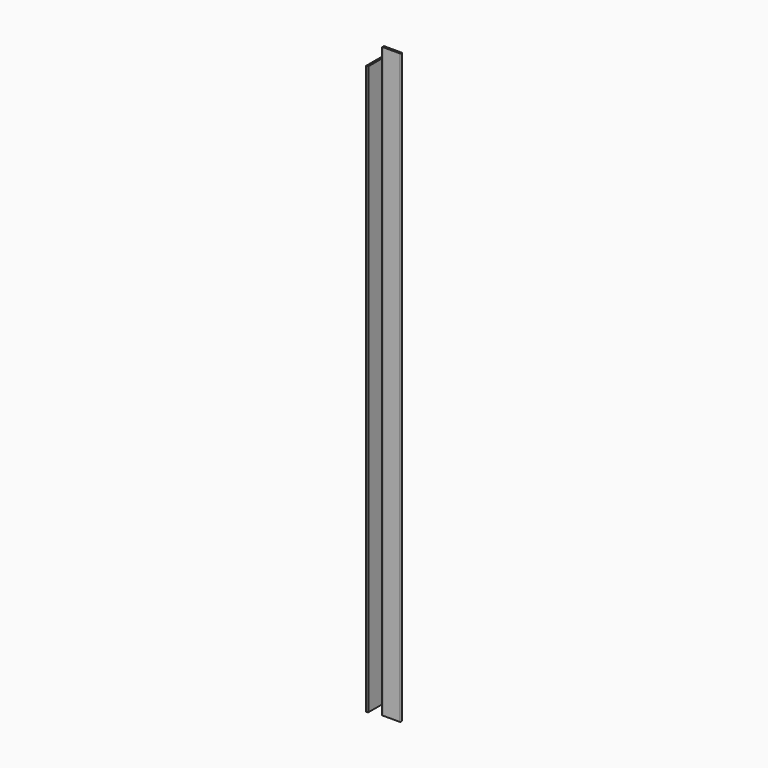
from build123d import *

# Parameters (mm, degrees)
F1_DEPTH      = 920
F2_W          = 32.354593277
F2_H          = 26.2916557118
F3_DEPTH      = 25
F3_DEPTH_BACK = 25
F4_W          = 93.2869557291
F4_H          = 71.5390760452
F5_DEPTH      = 3
F5_DEPTH_BACK = 25


with BuildPart() as f1:
    # F0 (on Top) → F1 (new body)
    with BuildSketch(Plane.XY):
        with BuildLine():
            Line((29.9719494759, 0.0280495928), (-0.0280505241, 0.0280495928))
            Line((-0.0280505241, 0.0280495928), (-0.0280505241, -29.9719504072))
            Line((-0.0280505241, -29.9719504072), (1.9719494759, -29.9719504072))
            ThreePointArc((1.9719494759, -29.9719504072), (2.679056257, -29.6790571884), (2.9719494759, -28.9719504072))
            Line((2.9719494759, -28.9719504072), (2.9719494759, -3.9719504072))
            ThreePointArc((2.9719494759, -3.9719504072), (3.2648426947, -3.264843626), (3.9719494759, -2.9719504072))
            Line((3.9719494759, -2.9719504072), (28.9719494759, -2.9719504072))
            ThreePointArc((28.9719494759, -2.9719504072), (29.679056257, -2.6790571884), (29.9719494759, -1.9719504072))
            Line((29.9719494759, -1.9719504072), (29.9719494759, 0.0280495928))
        make_face()
    extrude(amount=F1_DEPTH)

    # F2 (on Front) → F3 (cut, two sides)
    with BuildSketch(Plane.XZ) as f3_sk:
        with Locations((19.1772966385, 1.8541721441)):
            Rectangle(F2_W, F2_H)
        with Locations((19.1772966385, 918.1458278559)):
            Rectangle(F2_W, F2_H)
    extrude(amount=F3_DEPTH, mode=Mode.SUBTRACT)
    extrude(f3_sk.sketch, amount=-F3_DEPTH_BACK, mode=Mode.SUBTRACT)

    # F4 (on Right) → F5 (cut, two sides)
    with BuildSketch(Plane.YZ) as f5_sk:
        with Locations((-15.7623803243, -5.7695380226)):
            Rectangle(F4_W, F4_H)
        with Locations((-15.7623803243, 925.7695380226)):
            Rectangle(F4_W, F4_H)
    extrude(amount=F5_DEPTH, mode=Mode.SUBTRACT)
    extrude(f5_sk.sketch, amount=-F5_DEPTH_BACK, mode=Mode.SUBTRACT)


solid = f1.part
